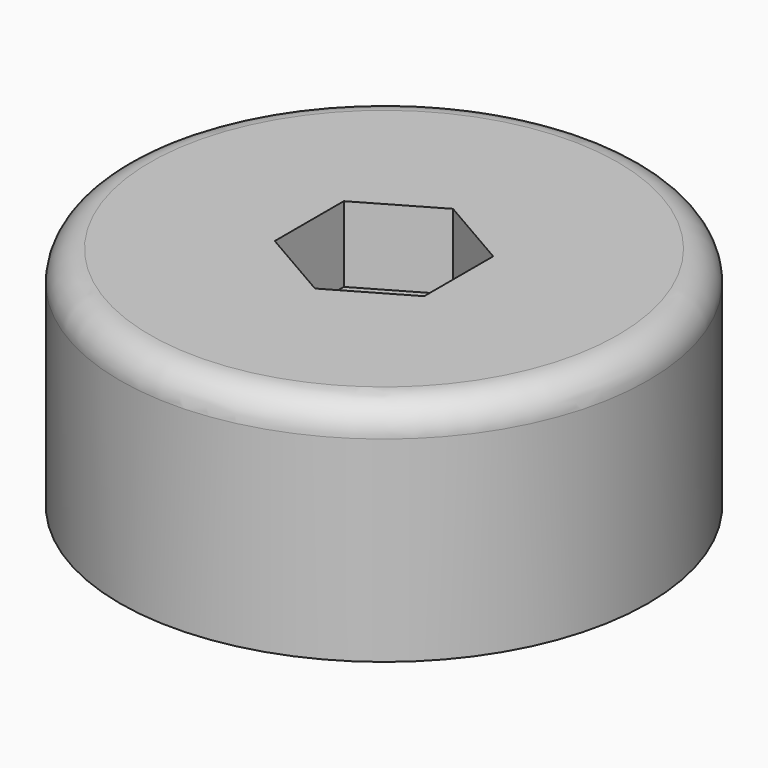
from build123d import *

# Parameters (mm, degrees)
F0_R     = 17.5
F1_DEPTH = 15
F3_DEPTH = 5
F4_R     = 2
F5_R     = 3.4
F6_DEPTH = 10.001


with BuildPart() as f1:
    # F0 (on Top) → F1 (new body)
    with BuildSketch(Plane.XY):
        Circle(F0_R)
    extrude(amount=F1_DEPTH)

    # F2 (on face) → F3 (cut)
    with BuildSketch(Plane.XY.offset(15)):
        Polygon((0, -5.715768), (4.95, -2.857884), (4.95, 2.857884), (0, 5.715768), (-4.95, 2.857884), (-4.95, -2.857884), align=None)
    extrude(amount=-F3_DEPTH, mode=Mode.SUBTRACT)

    # F4
    f4_edges = [f1.edges().sort_by_distance(p)[0] for p in [
        (-17.5, 0, 15),
    ]]
    fillet(f4_edges, radius=F4_R)

    # F5 (on face) → F6 (cut, through all)
    with BuildSketch(Plane.XY.offset(10)):
        Circle(F5_R)
    extrude(amount=-F6_DEPTH, mode=Mode.SUBTRACT)


solid = f1.part
